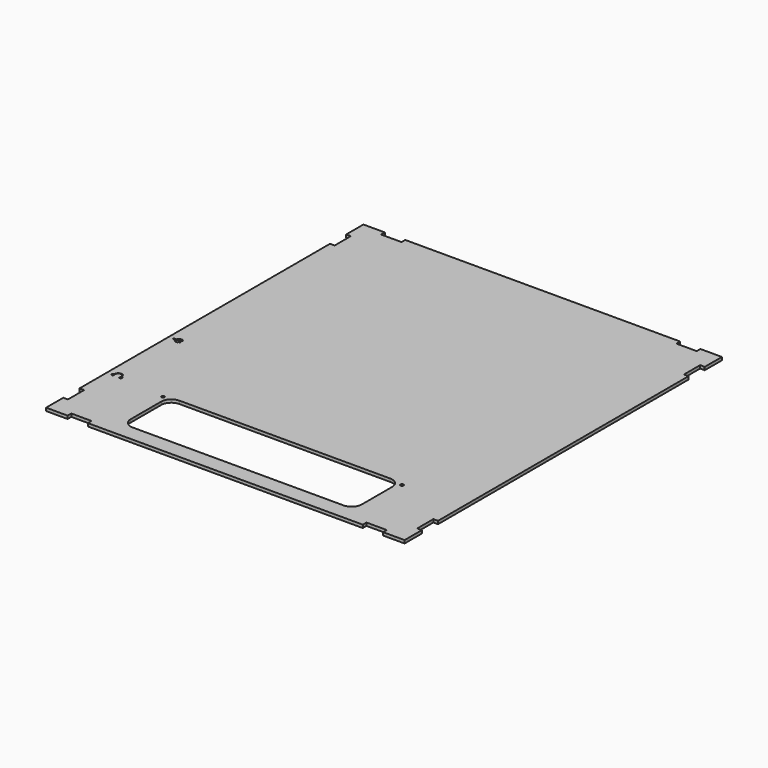
from build123d import *

# Parameters (mm, degrees)
SKETCH_R     = 1.5
PAD_DEPTH    = 3
POCKET_DEPTH = 1


with BuildPart() as part:
    # Sketch → Pad (new body)
    with BuildSketch(Plane.XY):
        Polygon((-173.9, 176.1), (-178.5, 176.1), (-178.5, 197.5), (-157.1, 197.5), (-157.1, 192.9), (-136.9, 192.9), (-136.9, 197.5), (136.9, 197.5), (136.9, 192.9), (157.1, 192.9), (157.1, 197.5), (178.5, 197.5), (178.5, 176.1), (173.9, 176.1), (173.9, 155.9), (178.5, 155.9), (178.5, -155.9), (173.9, -155.9), (173.9, -176.1), (178.5, -176.1), (178.5, -197.5), (157.1, -197.5), (157.1, -192.9), (136.9, -192.9), (136.9, -197.5), (-136.9, -197.5), (-136.9, -192.9), (-157.1, -192.9), (-157.1, -197.5), (-178.5, -197.5), (-178.5, -176.1), (-173.9, -176.1), (-173.9, -155.9), (-178.5, -155.9), (-178.5, 155.9), (-173.9, 155.9), align=None)
        with Locations((-119, -126.3)):
            Circle(SKETCH_R, mode=Mode.SUBTRACT)
        with Locations((119, -126.3)):
            Circle(SKETCH_R, mode=Mode.SUBTRACT)
        with BuildLine():
            Line((-105, -123.5), (105, -123.5))
            ThreePointArc((115, -133.5), (112.071068, -126.428932), (105, -123.5))
            Line((115, -133.5), (115, -171.5))
            ThreePointArc((105, -181.5), (112.071068, -178.571068), (115, -171.5))
            Line((105, -181.5), (-105, -181.5))
            ThreePointArc((-115, -171.5), (-112.071068, -178.571068), (-105, -181.5))
            Line((-115, -171.5), (-115, -133.5))
            ThreePointArc((-105, -123.5), (-112.071068, -126.428932), (-115, -133.5))
        make_face(mode=Mode.SUBTRACT)
    extrude(amount=PAD_DEPTH)

    # Sketch001 (on Face48 of Pad) → Pocket (cut)
    with BuildSketch(Plane.XY.offset(3)):
        with BuildLine():
            Line((-170.9, -45.75), (-173.9, -45.75))
            Line((-173.9, -45.75), (-173.9, -44.25))
            Line((-173.9, -44.25), (-170.9, -44.25))
            ThreePointArc((-168.650001, -42.00001), (-170.240987, -42.659016), (-170.9, -44.25))
            Line((-168.650001, -42.00001), (-167.150001, -42.00001))
            Line((-167.150001, -42.00001), (-167.150001, -43.12501))
            Line((-167.150001, -43.12501), (-165.650001, -43.12501))
            Line((-165.650001, -43.12501), (-165.650001, -43.87501))
            Line((-165.650001, -43.87501), (-167.150001, -43.87501))
            Line((-167.150001, -43.87501), (-167.150001, -46.12501))
            Line((-167.150001, -46.12501), (-165.650001, -46.12501))
            Line((-165.650001, -46.12501), (-165.650001, -46.87501))
            Line((-165.650001, -46.87501), (-167.150001, -46.87501))
            Line((-167.150001, -46.87501), (-167.150001, -48.00001))
            Line((-167.150001, -48.00001), (-168.650001, -48.00001))
            ThreePointArc((-170.9, -45.75), (-170.240994, -47.340997), (-168.650001, -48.00001))
        make_face()
        with BuildLine():
            ThreePointArc((-165.65, -120), (-168.65, -117), (-171.65, -120))
            Line((-171.65, -120), (-171.65, -123))
            Line((-171.65, -123), (-172.4, -123))
            ThreePointArc((-172.4, -120), (-173.9, -121.5), (-172.4, -123))
            ThreePointArc((-164.9, -120), (-168.65, -116.25), (-172.4, -120))
            ThreePointArc((-164.9, -123), (-163.4, -121.5), (-164.9, -120))
            Line((-165.65, -123), (-164.9, -123))
            Line((-165.65, -120), (-165.65, -123))
        make_face()
    extrude(amount=-POCKET_DEPTH, mode=Mode.SUBTRACT)


solid = part.part
